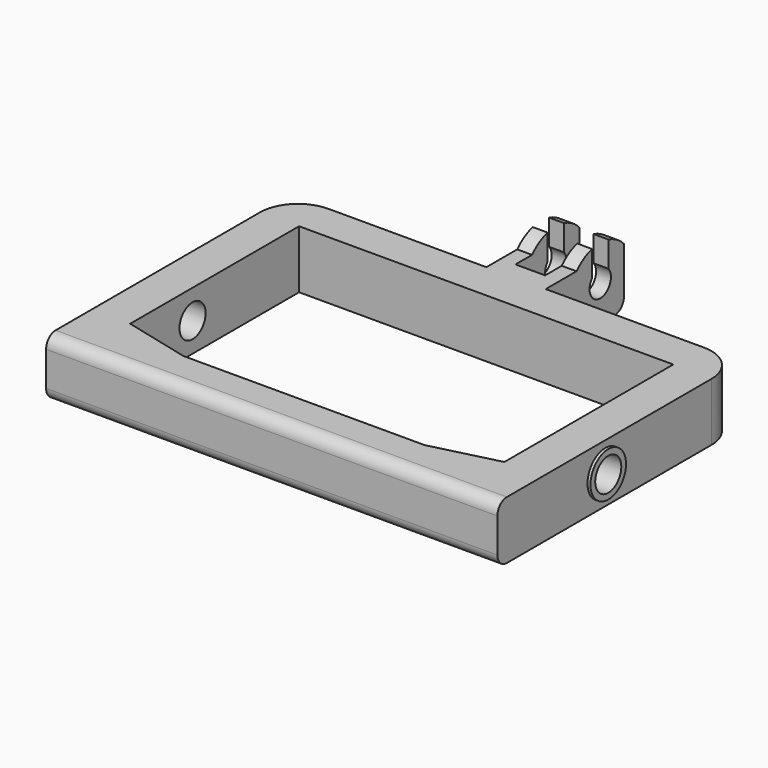
from build123d import *

# Parameters (mm, degrees)
PAD002_DEPTH    = 12
POCKET007_DEPTH = 243.567033
POCKET008_DEPTH = 215.317033
SKETCH013_R     = 3.75
PAD003_DEPTH    = 0.5
SKETCH014_R     = 2.75
POCKET009_DEPTH = 77.101
POCKET010_DEPTH = 76.601
POCKET011_DEPTH = 43.551
POCKET012_DEPTH = 43.551


with BuildPart() as part:
    # Sketch010 → Pad002 (new body)
    with BuildSketch(Plane.XY):
        with BuildLine():
            Line((0, 0), (38.05, 0))
            Line((38.05, 0), (38.05, 45.1))
            ThreePointArc((38.05, 45.1), (36.175483, 49.625483), (31.65, 51.5))
            Line((31.65, 51.5), (5, 51.5))
            Line((5, 51.5), (5, 68))
            Line((5, 68), (2.5, 68))
            Line((2.5, 68), (2.5, 54.5))
            Line((2.5, 54.5), (0, 54.5))
            Line((0, 54.5), (0, 0))
        make_face()
    pad002 = extrude(amount=PAD002_DEPTH)

    # Mirrored001: Pad002 across Sketch010 V_Axis
    add(pad002.mirror(Plane(origin=(0, 0, 0), x_dir=(0, 0, 1), z_dir=(1, 0, 0))))

    # Sketch011 (on DatumPlane) → Pocket007 (cut, through all)
    with BuildSketch(Plane.YZ):
        with BuildLine():
            Line((0, 9.8), (58, 9.8))
            ThreePointArc((68, 9.8), (63, 12), (58, 9.8))
            Line((68, 12.8), (68, 9.8))
            Line((0, 12.8), (68, 12.8))
            Line((0, 9.8), (0, 12.8))
        make_face()
    pocket007 = extrude(amount=POCKET007_DEPTH, mode=Mode.SUBTRACT)

    # Mirrored002: Pocket007 across YZ
    add(pocket007.mirror(Plane.YZ), mode=Mode.SUBTRACT)

    # Sketch012 (on DatumPlane) → Pocket008 (cut, through all)
    with BuildSketch(Plane.XY.offset(9.8)):
        Polygon((0, 6.8), (20.35, 6.8), (31.55, 9.6), (31.55, 45.2), (0, 45.2), align=None)
    pocket008 = extrude(amount=-POCKET008_DEPTH, mode=Mode.SUBTRACT)

    # Mirrored003: Pocket008 across Sketch012 V_Axis
    add(pocket008.mirror(Plane(origin=(0, 0, 9.8), x_dir=(0, 0, 1), z_dir=(1, 0, 0))), mode=Mode.SUBTRACT)

    # Sketch013 (on DatumPlane) → Pad003 (join)
    with BuildSketch(Plane.YZ.offset(38.05)):
        with Locations((22.75, 4.9)):
            Circle(SKETCH013_R)
    pad003 = extrude(amount=PAD003_DEPTH)

    # Mirrored004: Pad003 across YZ
    add(pad003.mirror(Plane.YZ))

    # Sketch014 (on DatumPlane) → Pocket009 (cut, through all)
    with BuildSketch(Plane.YZ.offset(38.55)):
        with Locations((22.75, 4.9)):
            Circle(SKETCH014_R)
    extrude(amount=-POCKET009_DEPTH, mode=Mode.SUBTRACT)

    # Sketch015 (on DatumPlane) → Pocket010 (cut, through all)
    with BuildSketch(Plane.YZ.offset(38.05)):
        with BuildLine():
            Line((2, -1), (-1, -1))
            Line((-1, -1), (-1, 10.8))
            Line((-1, 10.8), (2, 10.8))
            Line((2, 10.8), (2, 9.8))
            ThreePointArc((2, 9.8), (0.585786, 9.214214), (0, 7.8))
            Line((0, 7.8), (0, 2))
            ThreePointArc((0, 2), (0.585786, 0.585786), (2, 0))
            Line((2, 0), (2, -1))
        make_face()
    extrude(amount=-POCKET010_DEPTH, mode=Mode.SUBTRACT)

    # Sketch016 (on DatumPlane) → Pocket011 (cut, through all)
    with BuildSketch(Plane.YZ.offset(5)):
        with BuildLine():
            ThreePointArc((66, 0), (67.414214, 0.585786), (68, 2))
            Line((68, 0), (68, 2))
            Line((66, 0), (68, 0))
        make_face()
    extrude(amount=-POCKET011_DEPTH, mode=Mode.SUBTRACT)

    # Sketch017 (on DatumPlane) → Pocket012 (cut, through all)
    with BuildSketch(Plane.YZ.offset(5)):
        with BuildLine():
            ThreePointArc((61.2764, 7.446272), (63, 3.75), (64.7236, 7.446272))
            Line((64.7236, 7.446272), (64.7236, 12.446272))
            Line((61.2764, 12.446272), (64.7236, 12.446272))
            Line((61.2764, 7.446272), (61.2764, 12.446272))
        make_face()
    extrude(amount=-POCKET012_DEPTH, mode=Mode.SUBTRACT)


solid = part.part
